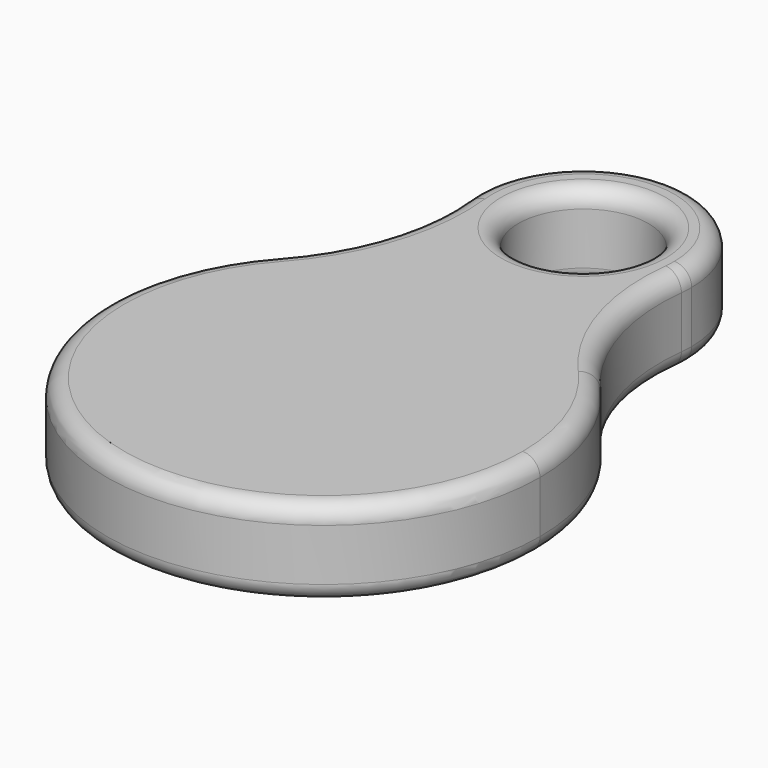
from build123d import *

# Parameters (mm, degrees)
F0_R     = 1.5
F1_DEPTH = 2
F2_R     = 0.4


with BuildPart() as f1:
    # F0 (on Top) → F1 (new body)
    with BuildSketch(Plane.XY):
        with BuildLine():
            ThreePointArc((-3.72678, 3.333333), (-1.78411, -4.670862), (5, 0))
            ThreePointArc((5, 0), (4.670862, 1.78411), (3.72678, 3.333333))
            ThreePointArc((3.72678, 3.333333), (2.041241, 4.564355), (0, 5))
            ThreePointArc((0, 5), (-2.041241, 4.564355), (-3.72678, 3.333333))
        make_face()
        with BuildLine():
            ThreePointArc((0, 5), (2.041241, 4.564355), (3.72678, 3.333333))
            ThreePointArc((3.72678, 3.333333), (2.690663, 5.145215), (2.48452, 7.222222))
            ThreePointArc((2.48452, 7.222222), (1.666667, 5.63661), (0, 5))
        make_face()
        with BuildLine():
            ThreePointArc((-2.48452, 7.222222), (-2.690663, 5.145215), (-3.72678, 3.333333))
            ThreePointArc((-3.72678, 3.333333), (-2.041241, 4.564355), (0, 5))
            ThreePointArc((0, 5), (-1.666667, 5.63661), (-2.48452, 7.222222))
        make_face()
        with BuildLine():
            ThreePointArc((-2.48452, 7.222222), (-1.666667, 5.63661), (0, 5))
            ThreePointArc((0, 5), (1.666667, 5.63661), (2.48452, 7.222222))
            ThreePointArc((2.48452, 7.222222), (2.496127, 7.360896), (2.5, 7.5))
            ThreePointArc((2.5, 7.5), (-0.139104, 9.996127), (-2.48452, 7.222222))
        make_face()
        with Locations((0, 7.5)):
            Circle(F0_R, mode=Mode.SUBTRACT)
    extrude(amount=F1_DEPTH)

    # F2
    f2_edges = [f1.edges().sort_by_distance(p)[0] for p in [
        (4.670862, 1.78411, 0),
        (2.690663, 5.145215, 0),
        (0, 10, 0),
        (-2.690663, 5.145215, 0),
        (-1.78411, -4.670862, 0),
        (-1.5, 7.5, 0),
        (-1.78411, -4.670862, 2),
        (4.670862, 1.78411, 2),
        (2.690663, 5.145215, 2),
        (0, 10, 2),
        (-2.690663, 5.145215, 2),
        (-1.5, 7.5, 2),
    ]]
    fillet(f2_edges, radius=F2_R)


solid = f1.part
